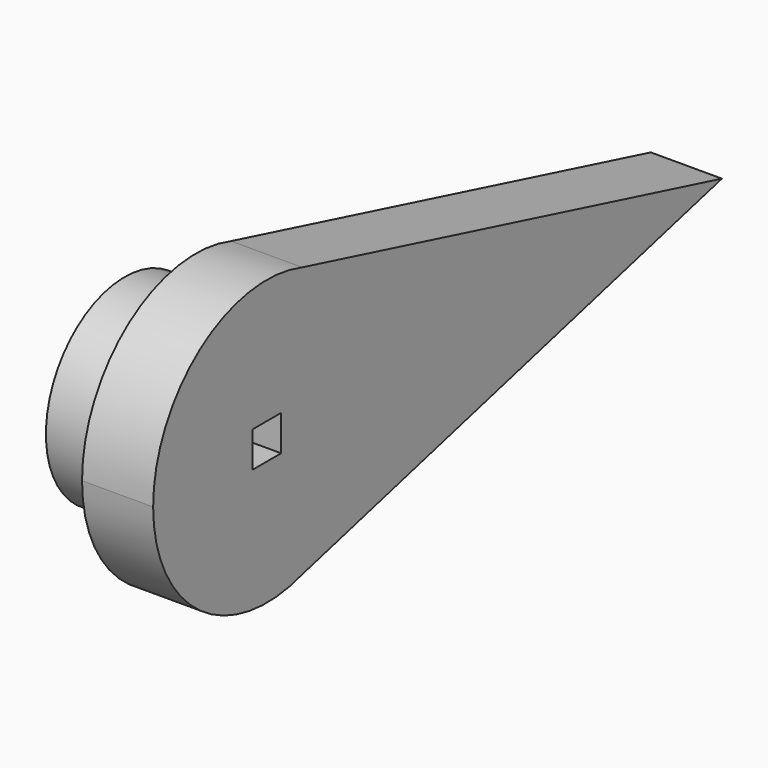
from build123d import *

# Parameters (mm, degrees)
F1_DEPTH = 6.35
F2_W     = 3.175
F2_H     = 3.175
F3_DEPTH = 25.4
F4_R     = 8.794705
F4_W     = 3.175
F4_H     = 3.175
F5_DEPTH = 6.35


with BuildPart() as f1:
    # F0 (on Right) → F1 (new body)
    with BuildSketch(Plane.YZ):
        with BuildLine():
            Line((50.8, 0), (3.935791, 12.074749))
            ThreePointArc((3.935791, 12.074749), (-7.460076, 10.277999), (-12.7, 0))
            ThreePointArc((-12.7, 0), (-7.460076, -10.277999), (3.935791, -12.074749))
            Line((3.935791, -12.074749), (50.8, 0))
        make_face()
    extrude(amount=F1_DEPTH)

    # F2 (on face) → F3 (cut)
    with BuildSketch(Plane.YZ.offset(6.35)):
        Rectangle(F2_W, F2_H)
    extrude(amount=-F3_DEPTH, mode=Mode.SUBTRACT)

    # F4 (on Right) → F5 (join)
    with BuildSketch(Plane.YZ):
        Circle(F4_R)
        Rectangle(F4_W, F4_H, mode=Mode.SUBTRACT)
    extrude(amount=-F5_DEPTH)


solid = f1.part
